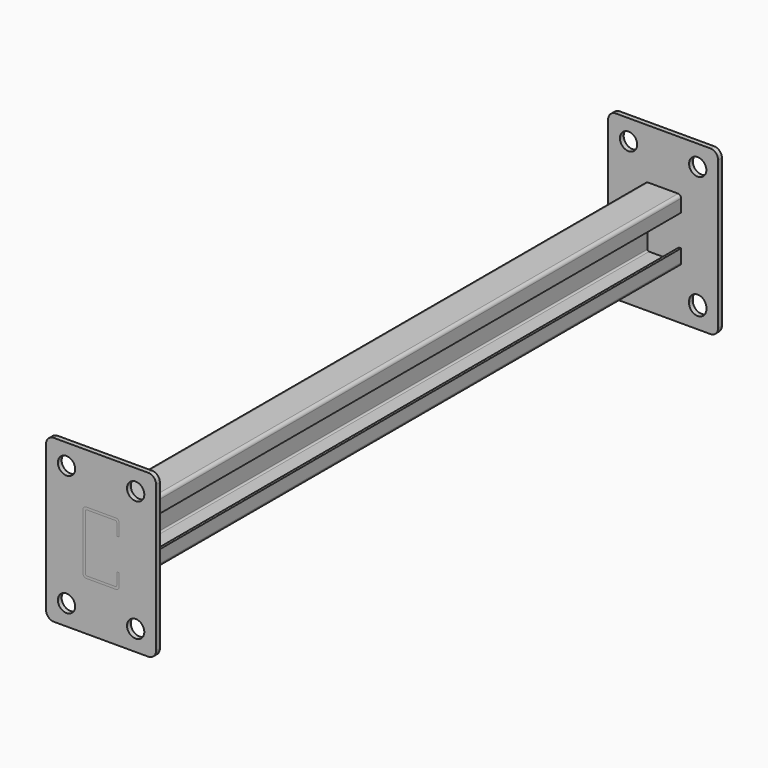
from build123d import *

# Parameters (mm, degrees)
F0_W     = 70
F0_H     = 104
F1_DEPTH = 3
F2_R     = 5
F4_D     = 11
F6_DEPTH = 444
F7_W     = 70
F7_H     = 103
F8_DEPTH = 3
F9_DEPTH = 3
F10_R    = 5
F12_D    = 11
F12_2_D  = 11


with BuildPart() as f1:
    # F0 (on Front) → F1 (new body)
    with BuildSketch(Plane.XZ):
        with Locations((-71.837332, 40.87914)):
            Rectangle(F0_W, F0_H)
    extrude(amount=F1_DEPTH)

    # F2
    f2_edges = [f1.edges().sort_by_distance(p)[0] for p in [
        (-36.837332, -1.5, 92.87914),
        (-106.837332, -1.5, 92.87914),
        (-106.837332, -1.5, -11.12086),
        (-36.837332, -1.5, -11.12086),
    ]]
    fillet(f2_edges, radius=F2_R)

    # F4 (through all)
    with Locations(Plane.XZ.offset(3)):
        with Locations((-49.837332, 1.87914), (-93.837332, 1.87914), (-93.837332, 79.87914), (-49.837332, 79.87914)):
            Hole(F4_D / 2)

    # F5 (on face) → F6 (join)
    with BuildSketch(Plane.XZ.offset(3)):
        with BuildLine():
            ThreePointArc((-60.337332, 58.87914), (-60.923118, 60.293354), (-62.337332, 60.87914))
            Line((-62.337332, 60.87914), (-81.337332, 60.87914))
            ThreePointArc((-81.337332, 60.87914), (-82.751546, 60.293354), (-83.337332, 58.87914))
            Line((-83.337332, 58.87914), (-83.337332, 22.87914))
            ThreePointArc((-83.337332, 22.87914), (-82.751546, 21.464927), (-81.337332, 20.87914))
            Line((-81.337332, 20.87914), (-62.337332, 20.87914))
            ThreePointArc((-62.337332, 20.87914), (-60.923118, 21.464927), (-60.337332, 22.87914))
            Line((-60.337332, 22.87914), (-60.337332, 30.87914))
            Line((-60.337332, 30.87914), (-61.837332, 30.87914))
            Line((-61.837332, 30.87914), (-61.837332, 23.37914))
            ThreePointArc((-61.837332, 23.37914), (-62.130225, 22.672034), (-62.837332, 22.37914))
            Line((-62.837332, 22.37914), (-80.837332, 22.37914))
            ThreePointArc((-80.837332, 22.37914), (-81.544439, 22.672034), (-81.837332, 23.37914))
            Line((-81.837332, 23.37914), (-81.837332, 58.37914))
            ThreePointArc((-81.837332, 58.37914), (-81.544439, 59.086247), (-80.837332, 59.37914))
            Line((-80.837332, 59.37914), (-62.837332, 59.37914))
            ThreePointArc((-62.837332, 59.37914), (-62.130225, 59.086247), (-61.837332, 58.37914))
            Line((-61.837332, 58.37914), (-61.837332, 50.87914))
            Line((-61.837332, 50.87914), (-60.337332, 50.87914))
            Line((-60.337332, 50.87914), (-60.337332, 58.87914))
        make_face()
    extrude(amount=F6_DEPTH)

    # F12 (through all)
    with Locations(Plane.XZ.offset(450)):
        with Locations((-93.837332, 79.87914), (-49.837332, 79.87914), (-49.837332, 2.87914), (-93.837332, 2.87914)):
            Hole(F12_D / 2)


with BuildPart() as f8:
    # F7 (on face) → F8 (new body)
    with BuildSketch(Plane.XZ.offset(447)):
        with Locations((-71.837332, 41.37914)):
            Rectangle(F7_W, F7_H)
        with BuildLine():
            Line((-61.837332, 50.87914), (-61.837332, 58.37914))
            ThreePointArc((-61.837332, 58.37914), (-62.130225, 59.086247), (-62.837332, 59.37914))
            Line((-62.837332, 59.37914), (-80.837332, 59.37914))
            ThreePointArc((-80.837332, 59.37914), (-81.544439, 59.086247), (-81.837332, 58.37914))
            Line((-81.837332, 58.37914), (-81.837332, 23.37914))
            ThreePointArc((-81.837332, 23.37914), (-81.544439, 22.672034), (-80.837332, 22.37914))
            Line((-80.837332, 22.37914), (-62.837332, 22.37914))
            ThreePointArc((-62.837332, 22.37914), (-62.130225, 22.672034), (-61.837332, 23.37914))
            Line((-61.837332, 23.37914), (-61.837332, 30.87914))
            Line((-61.837332, 30.87914), (-60.337332, 30.87914))
            Line((-60.337332, 30.87914), (-60.337332, 22.87914))
            ThreePointArc((-60.337332, 22.87914), (-60.923118, 21.464927), (-62.337332, 20.87914))
            Line((-62.337332, 20.87914), (-81.337332, 20.87914))
            ThreePointArc((-81.337332, 20.87914), (-82.751546, 21.464927), (-83.337332, 22.87914))
            Line((-83.337332, 22.87914), (-83.337332, 58.87914))
            ThreePointArc((-83.337332, 58.87914), (-82.751546, 60.293354), (-81.337332, 60.87914))
            Line((-81.337332, 60.87914), (-62.337332, 60.87914))
            ThreePointArc((-62.337332, 60.87914), (-60.923118, 60.293354), (-60.337332, 58.87914))
            Line((-60.337332, 58.87914), (-60.337332, 50.87914))
            Line((-60.337332, 50.87914), (-61.837332, 50.87914))
        make_face(mode=Mode.SUBTRACT)
    extrude(amount=F8_DEPTH)

    # F10
    f10_edges = [f8.edges().sort_by_distance(p)[0] for p in [
        (-36.837332, -448.5, 92.87914),
        (-106.837332, -448.5, 92.87914),
        (-106.837332, -448.5, -10.12086),
        (-36.837332, -448.5, -10.12086),
    ]]
    fillet(f10_edges, radius=F10_R)

    # F12#2 (through all)
    with Locations(Plane.XZ.offset(450)):
        with Locations((-93.837332, 79.87914), (-49.837332, 79.87914), (-49.837332, 2.87914), (-93.837332, 2.87914)):
            Hole(F12_2_D / 2)


with BuildPart() as f9:
    # F6_face (on face) → F9 (new body)
    with BuildSketch(Plane(origin=(-74.024888, -447, 40.87914), x_dir=(1, 0, 0), z_dir=(0, -1, 0))):
        with BuildLine():
            Line((12.187556, 17.5), (12.187556, 10))
            Line((12.187556, 10), (13.687556, 10))
            Line((13.687556, 10), (13.687556, 18))
            ThreePointArc((13.687556, 18), (13.10177, 19.414214), (11.687556, 20))
            Line((11.687556, 20), (-7.312444, 20))
            ThreePointArc((-7.312444, 20), (-8.726657, 19.414214), (-9.312444, 18))
            Line((-9.312444, 18), (-9.312444, -18))
            ThreePointArc((-9.312444, -18), (-8.726657, -19.414214), (-7.312444, -20))
            Line((-7.312444, -20), (11.687556, -20))
            ThreePointArc((11.687556, -20), (13.10177, -19.414214), (13.687556, -18))
            Line((13.687556, -18), (13.687556, -10))
            Line((13.687556, -10), (12.187556, -10))
            Line((12.187556, -10), (12.187556, -17.5))
            ThreePointArc((12.187556, -17.5), (11.894663, -18.207107), (11.187556, -18.5))
            Line((11.187556, -18.5), (-6.812444, -18.5))
            ThreePointArc((-6.812444, -18.5), (-7.51955, -18.207107), (-7.812444, -17.5))
            Line((-7.812444, -17.5), (-7.812444, 17.5))
            ThreePointArc((-7.812444, 17.5), (-7.51955, 18.207107), (-6.812444, 18.5))
            Line((-6.812444, 18.5), (11.187556, 18.5))
            ThreePointArc((11.187556, 18.5), (11.894663, 18.207107), (12.187556, 17.5))
        make_face()
    extrude(amount=F9_DEPTH)


solid = Compound([f1.part, f8.part, f9.part])
